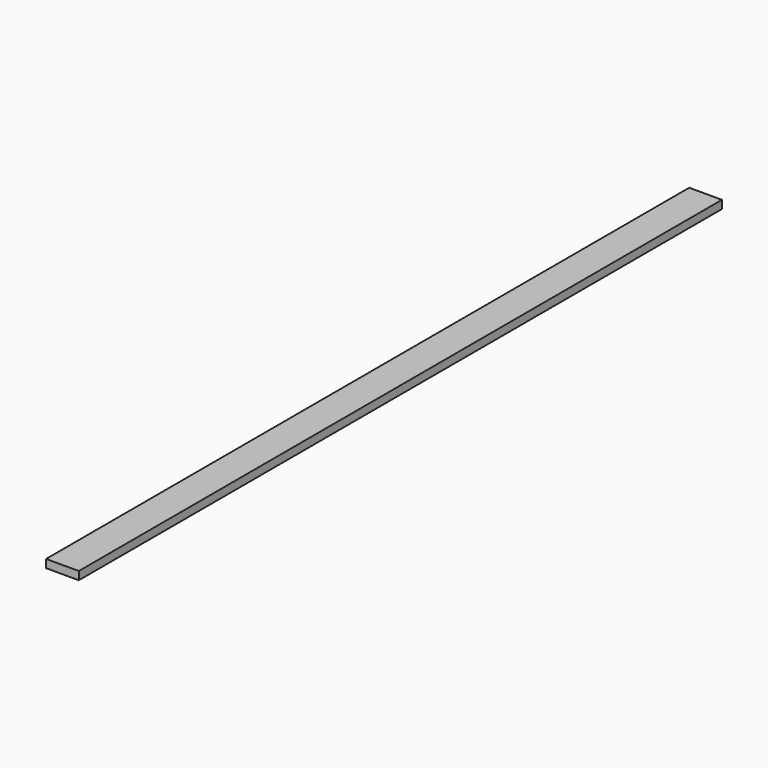
from build123d import *

# Parameters (mm, degrees)
F0_W     = 101.6
F0_H     = 25.4
F1_DEPTH = 2496.8


with BuildPart() as f1:
    # F0 (on Front) → F1 (new body)
    with BuildSketch(Plane.XZ):
        with Locations((0, 12.7)):
            Rectangle(F0_W, F0_H)
        with Locations((0, 12.7)):
            Rectangle(F0_W, F0_H)
    extrude(amount=-F1_DEPTH)


solid = f1.part
